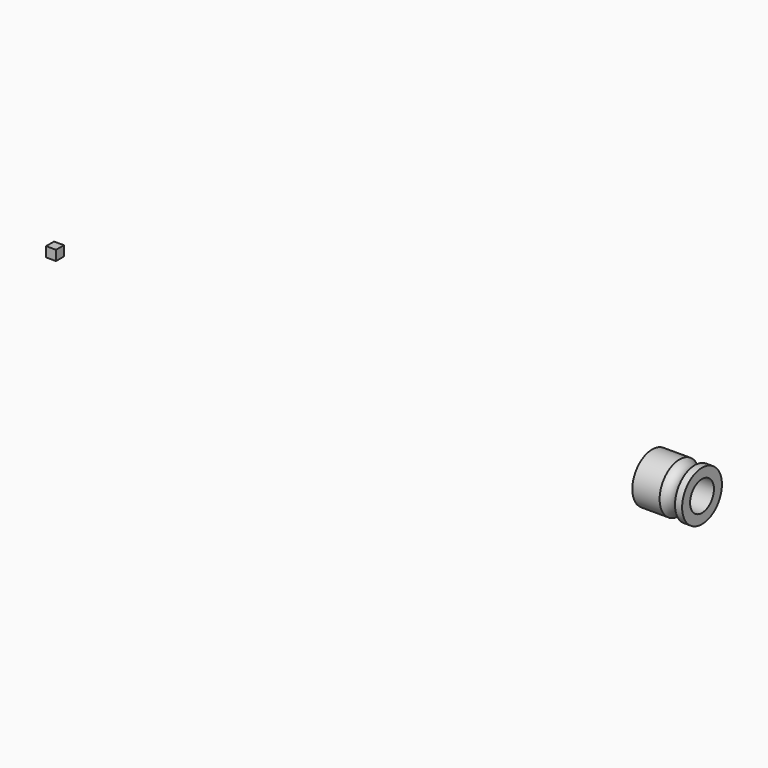
from build123d import *

# Parameters (mm, degrees)
F1_DEPTH = 10


with BuildPart() as f1:
    # F0 (on Top) → F1 (new body)
    with BuildSketch(Plane.XY):
        Polygon((-5, -5), (5, -5), (5, 0), (5, 5), (-5, 5), align=None)
    extrude(amount=F1_DEPTH)


with BuildPart() as f2:
    # F0 (on Top) → F2 (revolve)
    with BuildSketch(Plane.XY):
        with BuildLine():
            Line((600, 25), (600, 15))
            Line((600, 15), (650, 15))
            Line((650, 15), (650, 25))
            Line((650, 25), (642.862201, 25))
            ThreePointArc((642.862201, 25), (635.131687, 21.524409), (627.401173, 25))
            Line((627.401173, 25), (600, 25))
        make_face()
    revolve(axis=Axis((625, 0, 0), (1, 0, 0)))


solid = Compound([f1.part, f2.part])
